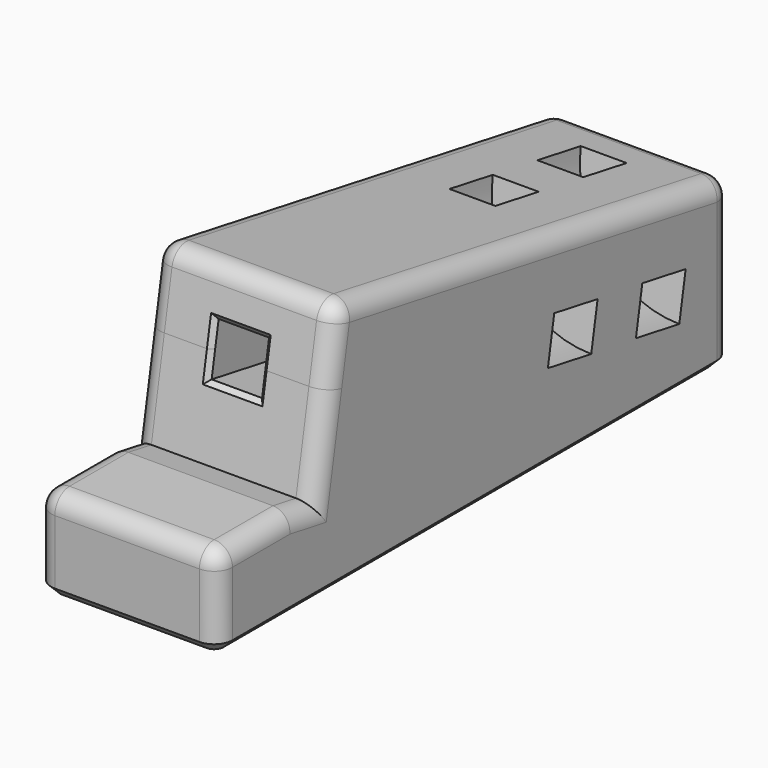
from build123d import *

# Parameters (mm, degrees)
SKETCH003_R             = 6.25
SKETCH003_R_2           = 3.75
PAD002_DEPTH            = 3
BODY002_PLACEMENT_ANGLE = 350
PAD_DEPTH               = 9.88
SKETCH001_W             = 2.75
SKETCH001_H             = 2.75
POCKET_DEPTH            = 20
FILLET_R                = 1
CHAMFER_SIZE            = 0.5
CHAMFER001_SIZE         = 0.25


with BuildPart() as obj1:
    # Sketch003 → Pad002 (new body)
    with BuildSketch(Plane.XZ):
        Circle(SKETCH003_R)
        Circle(SKETCH003_R_2, mode=Mode.SUBTRACT)
    extrude(amount=-PAD002_DEPTH)


with BuildPart() as obj1_1:
    # Body002 placement: moved
    add(obj1.part.moved(Location((-24.4, 17, 6.25))).rotate(Axis((-24.4, 17, 6.25), (1, 0, 0)), BODY002_PLACEMENT_ANGLE))


with BuildPart() as obj2:
    # Body003 base: copy of obj1
    add(obj1_1.part)


with BuildPart() as obj2_1:
    # Body003 placement: moved
    add(obj2.part.moved(Location((0, 6, -1))))


with BuildPart() as foot_w_cuts:
    # Sketch → Pad (new body)
    with BuildSketch(Plane.YZ):
        Polygon((1.57769, 8.947526), (0.883098, 5.008295), (0, 0), (-1.575692, 0.277837), (-6.575692, 0.277837), (-6.575692, -4.722163), (28.424308, -4.722163), (28.424308, 4.213743), align=None)
    extrude(amount=PAD_DEPTH)

    # Sketch001 (on Face9 of Pad) → Pocket (cut)
    with BuildSketch(Plane(origin=(0, 0, 0), x_dir=(0, -0.173648, -0.984808), z_dir=(0, -0.984808, 0.173648))):
        with Locations((-5.087502, 4.946713)):
            Rectangle(SKETCH001_W, SKETCH001_H)
    extrude(amount=-POCKET_DEPTH, mode=Mode.SUBTRACT)

    # Fillet
    fillet_edges = [foot_w_cuts.edges().sort_by_distance(p)[0] for p in [
        (9.88, -4.075692, 0.277837),
        (4.94, -6.575692, 0.277837),
        (0, -4.075692, 0.277837),
        (4.94, 1.57769, 8.947526),
        (0, 15.000999, 6.580635),
        (9.88, 15.000999, 6.580635),
        (9.88, 0.788845, 4.473763),
        (0, 0.788845, 4.473763),
        (4.94, 28.424308, 4.213743),
        (9.88, 28.424308, -0.25421),
        (9.88, -0.787846, 0.138919),
        (0, -0.787846, 0.138919),
        (9.88, -6.575692, -2.222163),
        (0, -6.575692, -2.222163),
        (0, 28.424308, -0.25421),
    ]]
    fillet(fillet_edges, radius=FILLET_R)

    # Chamfer
    chamfer_edges = [foot_w_cuts.edges().sort_by_distance(p)[0] for p in [
        (0, 10.924308, -4.722163),
    ]]
    chamfer(chamfer_edges, length=CHAMFER_SIZE)

    # Chamfer001
    chamfer001_edges = [foot_w_cuts.edges().sort_by_distance(p)[0] for p in [
        (3.571713, 0.883435, 5.010211),
        (4.946713, 1.122202, 6.364322),
        (6.321713, 0.883435, 5.010211),
        (4.946713, 0.644669, 3.656101),
    ]]
    chamfer(chamfer001_edges, length=CHAMFER001_SIZE)


with BuildPart() as foot_w_cuts_1:
    # Body placement: moved
    add(foot_w_cuts.part.moved(Location((-34.3, 0, 0))))

    # Cut: cut obj1
    add(obj1_1.part, mode=Mode.SUBTRACT)

    # Cut001: cut obj2
    add(obj2_1.part, mode=Mode.SUBTRACT)


solid = foot_w_cuts_1.part
